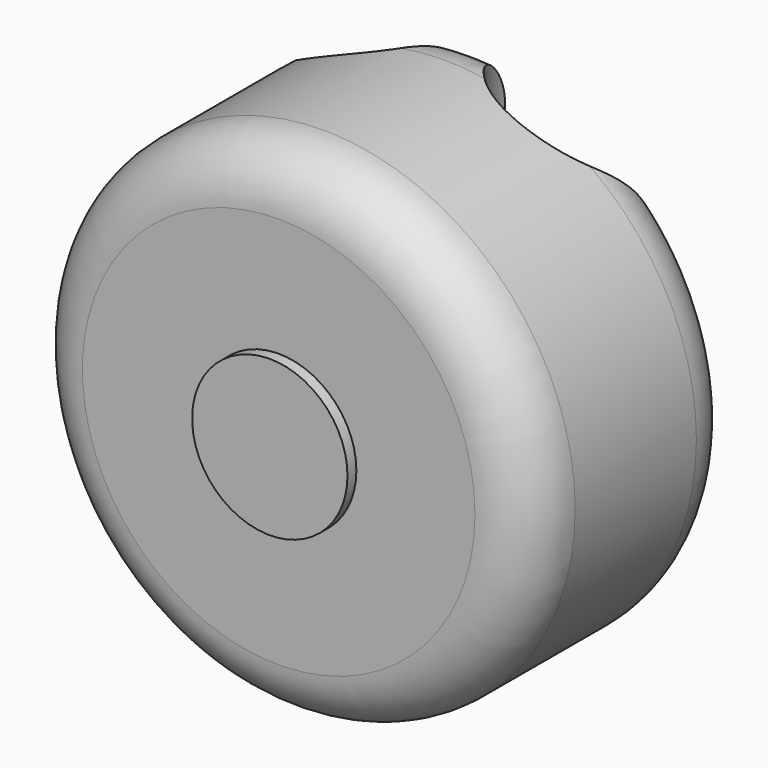
from build123d import *

# Parameters (mm, degrees)
F0_R      = 57.495906
F1_DEPTH  = 59.983172
F2_R      = 12.7
F3_R      = 12.7
F4_R      = 17.725116
F5_DEPTH  = 2.54
F6_R      = 17.48679
F8_DEPTH  = 68.421327
F7_R      = 17.437496
F9_DEPTH  = 79.699665
F11_DEPTH = 109.126121


with BuildPart() as f1:
    # F0 (on Front) → F1 (new body)
    with BuildSketch(Plane.XZ):
        Circle(F0_R)
        Circle(F0_R)
    extrude(amount=F1_DEPTH)

    # F2
    f2_edges = [f1.edges().sort_by_distance(p)[0] for p in [
        (-57.495906, -59.983172, 0),
    ]]
    fillet(f2_edges, radius=F2_R)

    # F3
    f3_edges = [f1.edges().sort_by_distance(p)[0] for p in [
        (-57.495906, 0, 0),
    ]]
    fillet(f3_edges, radius=F3_R)

    # F4 (on face) → F5 (join)
    with BuildSketch(Plane.XZ.offset(59.983172)):
        Circle(F4_R)
    extrude(amount=F5_DEPTH)

    # F6 (on Top) → F8 (cut)
    with BuildSketch(Plane.XY):
        with Locations((21.160603, 0)):
            Circle(F6_R)
    extrude(amount=-F8_DEPTH, mode=Mode.SUBTRACT)

    # F7 (on Top) → F9 (cut)
    with BuildSketch(Plane.XY):
        with Locations((-21.990493, 0)):
            Circle(F7_R)
    extrude(amount=-F9_DEPTH, mode=Mode.SUBTRACT)

    # F9_face (on face) + F8_face (on face) → F11 (cut)
    with BuildSketch(Plane(origin=(-21.990493, -7.400703, 0), x_dir=(1, 0, 0), z_dir=(0, 0, -1))):
        with BuildLine():
            ThreePointArc((17.437496, -7.400703), (0, 10.036793), (-17.437496, -7.400703))
            Line((-17.437496, -7.400703), (17.437496, -7.400703))
        make_face()
    with BuildSketch(Plane(origin=(21.160603, -7.421624, 0), x_dir=(1, 0, 0), z_dir=(0, 0, -1))):
        with BuildLine():
            ThreePointArc((17.48679, -7.421624), (0, 10.065166), (-17.48679, -7.421624))
            Line((-17.48679, -7.421624), (17.48679, -7.421624))
        make_face()
    extrude(amount=-F11_DEPTH, mode=Mode.SUBTRACT)


solid = f1.part
